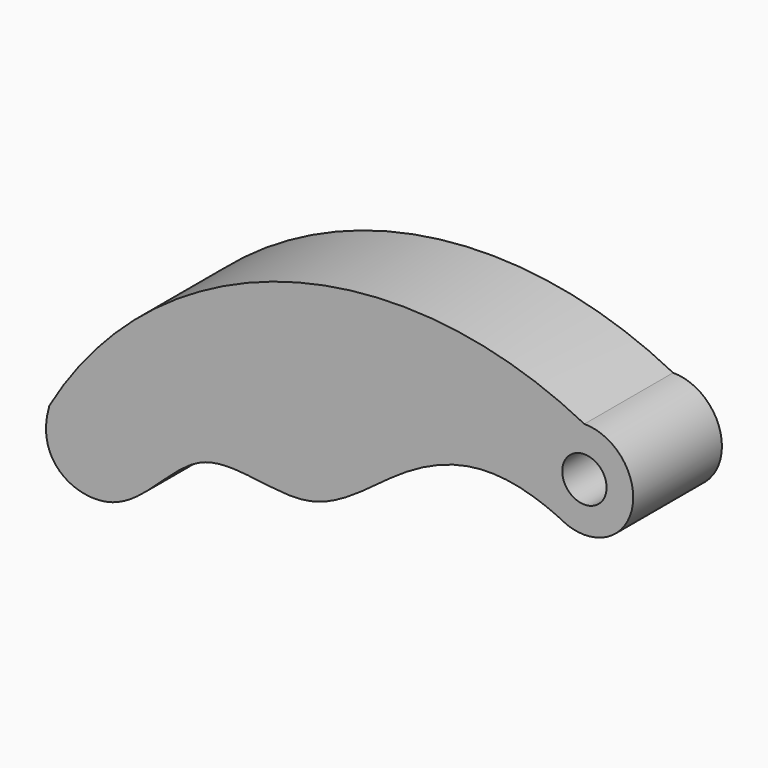
from build123d import *

# Parameters (mm, degrees)
F0_R     = 2.54
F1_DEPTH = 12.7


with BuildPart() as f1:
    # F0 (on Front) → F1 (new body)
    with BuildSketch(Plane.XZ):
        with BuildLine():
            add(Edge.make_bspline(
                [(-61.2702155639, -12.4870116898), (-63.0492995514, -18.4608959599), (-52.8336462773, -23.5806814227), (-44.7760843998, -9.0678262088), (-31.2601095782, -15.0418634571), (-21.6017790105, -5.7883097563), (-11.8887722869, -1.7260045544), (-5.2872111416, -3.5463045636), (-2.0132617986, -5.2127268229)],
                knots=[0, 0, 0, 0, 0.1579098521, 0.3389631799, 0.5098395471, 0.6841169049, 0.8421178354, 1, 1, 1, 1], degree=3))
            ThreePointArc((-2.0132617986, -5.2127268229), (5.4933806297, -1.0239693632), (0, 5.588))
            ThreePointArc((0, 5.588), (-34.2456451419, 8.7894019987), (-61.2702155639, -12.4870116898))
        make_face()
        Circle(F0_R, mode=Mode.SUBTRACT)
    extrude(amount=F1_DEPTH)


solid = f1.part
